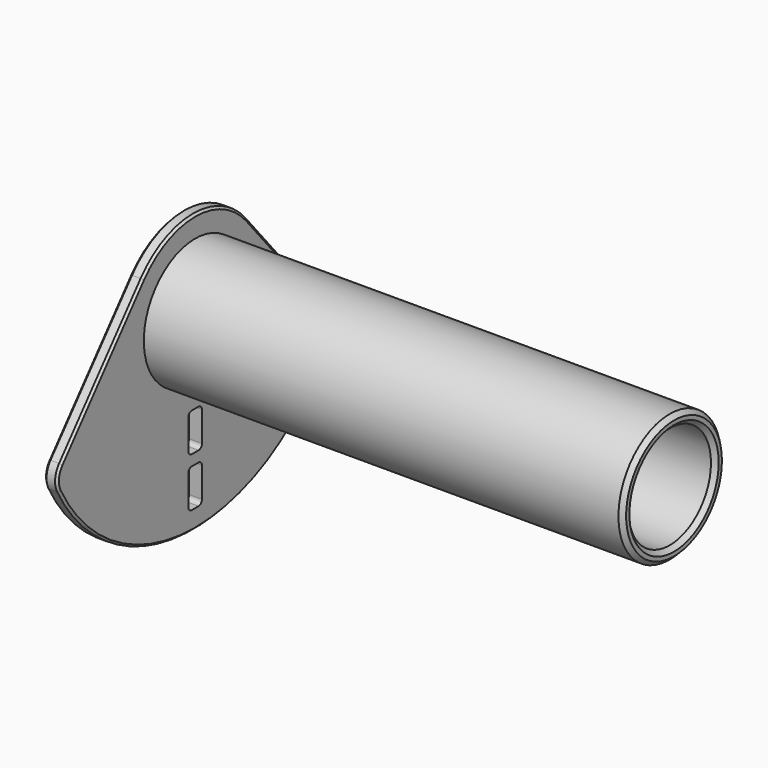
from build123d import *

# Parameters (mm, degrees)
SKETCH001_W     = 4
SKETCH001_H     = 9
POCKET_DEPTH    = 3
POCKET001_DEPTH = 5
FILLET_R        = 5
FILLET001_R     = 1
CHAMFER_SIZE    = 0.5
CHAMFER001_SIZE = 1


with BuildPart() as part:
    # Sketch → Revolution (revolve)
    with BuildSketch(Plane.XY):
        Polygon((0, 45), (3, 45), (3, 15), (115, 15), (115, 12.05), (0, 12.05), align=None)
    revolve(axis=Axis((0, 0, 0), (1, 0, 0)))

    # Sketch001 → Pocket (cut, symmetric)
    with BuildSketch(Plane.YZ.offset(2)):
        with Locations((0, -36)):
            Rectangle(SKETCH001_W, SKETCH001_H)
        with Locations((0, -24.5)):
            Rectangle(SKETCH001_W, SKETCH001_H)
    extrude(amount=POCKET_DEPTH, both=True, mode=Mode.SUBTRACT)

    # Sketch002 → Pocket001 (cut)
    with BuildSketch(Plane(origin=(0, 0, 0), x_dir=(0, -1, 0), z_dir=(-1, 0, 0))):
        with BuildLine():
            ThreePointArc((44.777118, -22.248814), (0, 50), (-44.777118, -22.248814))
            Line((-44.777118, -22.248814), (-15.320889, 12.855752))
            ThreePointArc((15.320889, 12.855752), (0, 20), (-15.320889, 12.855752))
            Line((15.320889, 12.855752), (44.777118, -22.248814))
        make_face()
    extrude(amount=-POCKET001_DEPTH, mode=Mode.SUBTRACT)

    # Fillet
    fillet_edges = [part.edges().sort_by_distance(p)[0] for p in [
        (1.5, 41.232486, -18.024487),
        (1.5, -41.232486, -18.024487),
    ]]
    fillet(fillet_edges, radius=FILLET_R)

    # Fillet001
    fillet001_edges = [part.edges().sort_by_distance(p)[0] for p in [
        (1.5, 2, -20),
        (1.5, -2, -20),
        (1.5, -2, -29),
        (1.5, 2, -29),
        (1.5, 2, -31.5),
        (1.5, -2, -31.5),
        (1.5, -2, -40.5),
        (1.5, 2, -40.5),
    ]]
    fillet(fillet001_edges, radius=FILLET001_R)

    # Chamfer
    chamfer_edges = [part.edges().sort_by_distance(p)[0] for p in [
        (0, 0, -45),
        (3, 0, -45),
        (0, -12.05, 0),
    ]]
    chamfer(chamfer_edges, length=CHAMFER_SIZE)

    # Chamfer001
    chamfer001_edges = [part.edges().sort_by_distance(p)[0] for p in [
        (115, -15, 0),
        (115, -12.05, 0),
    ]]
    chamfer(chamfer001_edges, length=CHAMFER001_SIZE)


solid = part.part
